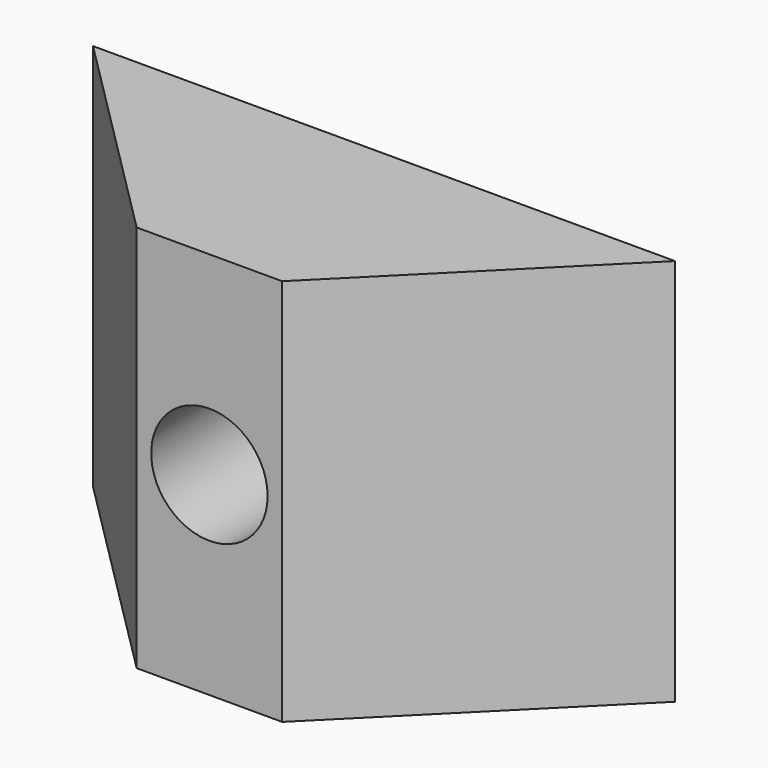
from build123d import *

# Parameters (mm, degrees)
F1_DEPTH = 12.7
F2_R     = 3.81
F3_DEPTH = 14.2885


with BuildPart() as f1:
    # F0 (on Top) → F1 (new body, symmetric)
    with BuildSketch(Plane.XY):
        Polygon((-19.05, 14.2875), (-4.7625, 0), (4.7625, 0), (19.05, 14.2875), align=None)
    extrude(amount=F1_DEPTH, both=True)

    # F2 (on Front) → F3 (cut, through all)
    with BuildSketch(Plane.XZ):
        Circle(F2_R)
    extrude(amount=-F3_DEPTH, mode=Mode.SUBTRACT)


solid = f1.part
